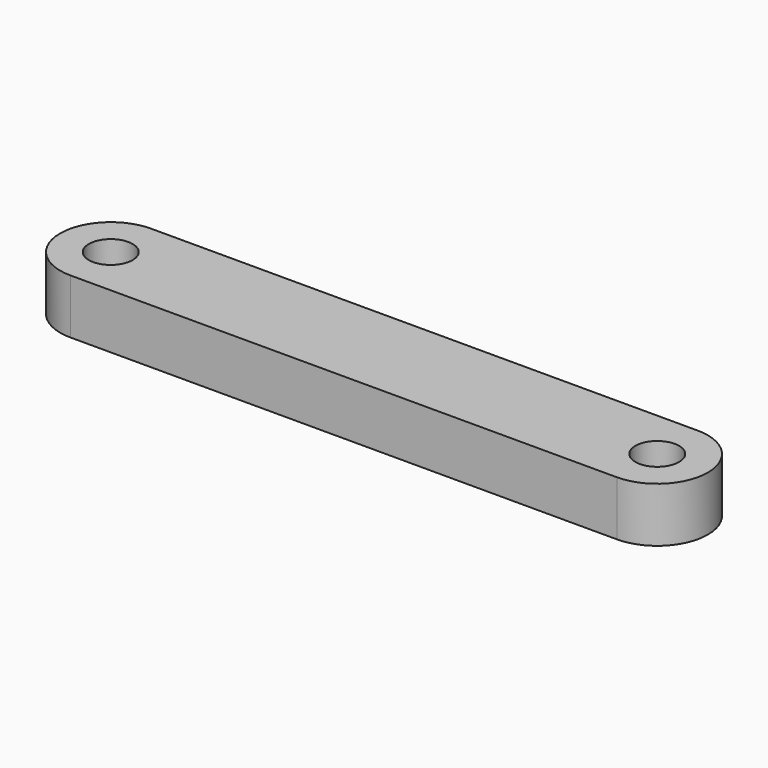
from build123d import *

# Parameters (mm, degrees)
CYLINDER005_R     = 1.6
CYLINDER005_DEPTH = 30
PAD002_DEPTH      = 4


with BuildPart() as finger_drill_master:
    # Cylinder005 → Cylinder005 (new body)
    with BuildSketch(Plane.XY.offset(-8)):
        Circle(CYLINDER005_R)
    extrude(amount=CYLINDER005_DEPTH)


with BuildPart() as clone006:
    # Clone006 base: copy of finger-drill-master
    add(finger_drill_master.part)


with BuildPart() as clone006_1:
    # Clone006 placement: moved
    add(clone006.part.moved(Location((40, 0, 0))))


with BuildPart() as fusion012:
    # Clone005 base: copy of finger-drill-master
    add(finger_drill_master.part)

    # Fusion012: union Clone006
    add(clone006_1.part)


with BuildPart() as link_master:
    # Sketch002 → Pad002 (new body)
    with BuildSketch(Plane.XY):
        with BuildLine():
            ThreePointArc((0, 3.7), (-3.7, 0), (0, -3.7))
            Line((0, -3.7), (40, -3.7))
            ThreePointArc((40, -3.7), (43.7, 0), (40, 3.7))
            Line((0, 3.7), (40, 3.7))
        make_face()
    extrude(amount=PAD002_DEPTH)

    # Cut001: cut Fusion012
    add(fusion012.part, mode=Mode.SUBTRACT)


solid = link_master.part
